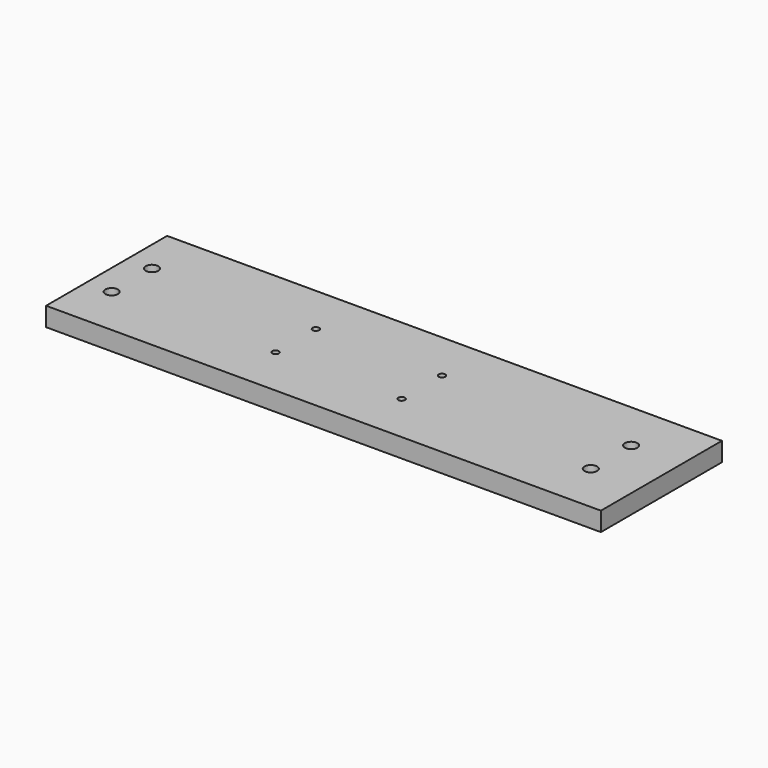
from build123d import *

# Parameters (mm, degrees)
F0_W     = 279.4
F0_H     = 76.2
F1_DEPTH = 4.7625
F2_R     = 3.175
F2_R_2   = 1.651
F3_DEPTH = 9.526


with BuildPart() as f1:
    # F0 (on Top) → F1 (new body, symmetric)
    with BuildSketch(Plane.XY):
        with Locations((-12.7, 0)):
            Rectangle(F0_W, F0_H)
    extrude(amount=F1_DEPTH, both=True)

    # F2 (on face) → F3 (cut, through all)
    with BuildSketch(Plane(origin=(0, 0, -4.7625), x_dir=(1, 0, 0), z_dir=(0, 0, -1))):
        with Locations((-139.7, 12.7)):
            Circle(F2_R)
        with Locations((-139.7, -12.7)):
            Circle(F2_R)
        with Locations((-57.15, -12.7)):
            Circle(F2_R_2)
        with Locations((-57.15, 12.7)):
            Circle(F2_R_2)
        with Locations((6.35, 12.7)):
            Circle(F2_R_2)
        with Locations((6.35, -12.7)):
            Circle(F2_R_2)
        with Locations((101.6, -12.7)):
            Circle(F2_R)
        with Locations((101.6, 12.7)):
            Circle(F2_R)
    extrude(amount=-F3_DEPTH, mode=Mode.SUBTRACT)


solid = f1.part
